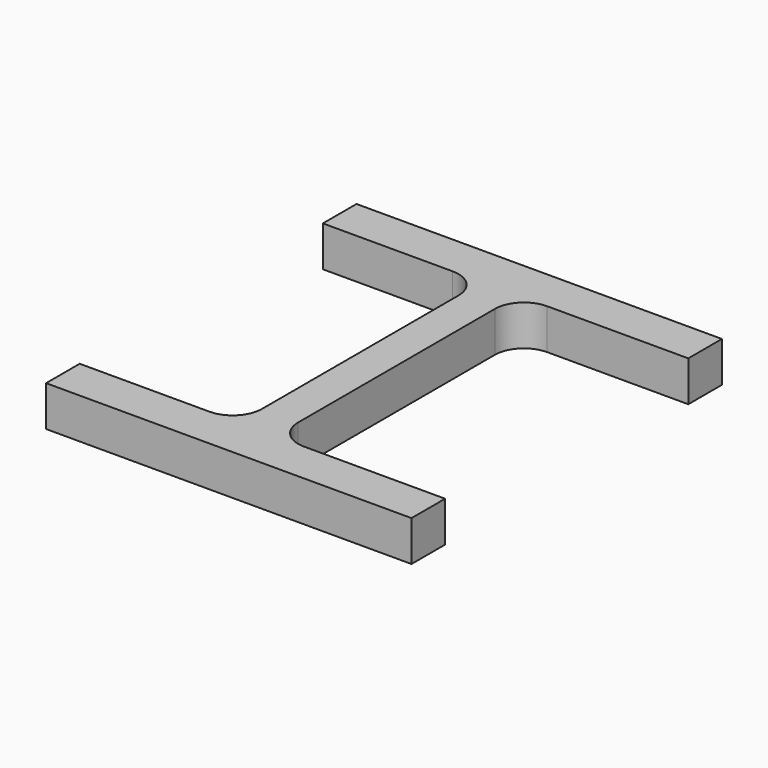
from build123d import *

# Parameters (mm, degrees)
F1_DEPTH = 25


with BuildPart() as f1:
    # F0 (on Top) → F1 (new body)
    with BuildSketch(Plane.XY):
        with BuildLine():
            Line((171.934463, 60.622546), (-54.065537, 60.622546))
            Line((-54.065537, 60.622546), (-54.065537, 34.622546))
            Line((-54.065537, 34.622546), (26.184463, 34.622546))
            ThreePointArc((26.184463, 34.622546), (38.912385, 29.350468), (44.184463, 16.622546))
            Line((44.184463, 16.622546), (44.184463, -135.377454))
            ThreePointArc((44.184463, -135.377454), (38.912385, -148.105376), (26.184463, -153.377454))
            Line((26.184463, -153.377454), (-54.065537, -153.377454))
            Line((-54.065537, -153.377454), (-54.065537, -179.377454))
            Line((-54.065537, -179.377454), (171.934463, -179.377454))
            Line((171.934463, -179.377454), (171.934463, -153.377454))
            Line((171.934463, -153.377454), (84.684463, -153.377454))
            ThreePointArc((84.684463, -153.377454), (71.956541, -148.105376), (66.684463, -135.377454))
            Line((66.684463, -135.377454), (66.684463, 16.622546))
            ThreePointArc((66.684463, 16.622546), (71.956541, 29.350468), (84.684463, 34.622546))
            Line((84.684463, 34.622546), (171.934463, 34.622546))
            Line((171.934463, 34.622546), (171.934463, 60.622546))
        make_face()
    extrude(amount=F1_DEPTH)


solid = f1.part
